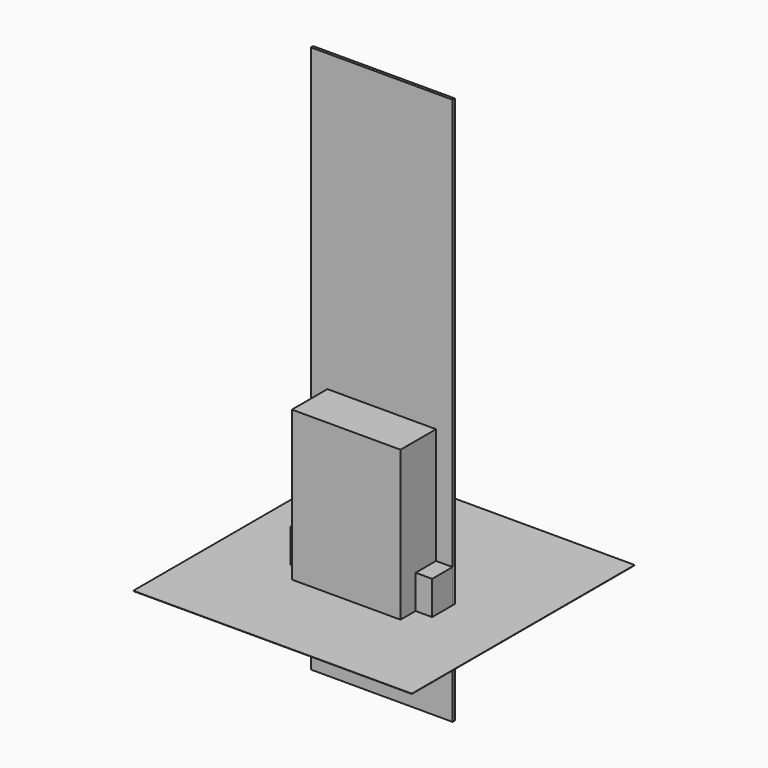
from build123d import *

# Parameters (mm, degrees)
F1_DEPTH  = 50
F3_DEPTH  = 25
F5_DEPTH  = 35
F7_DEPTH  = 30
F9_DEPTH  = 3
F11_DEPTH = 30
F13_DEPTH = 35
F14_W     = 295
F14_H     = 295
F15_DEPTH = 0.3


with BuildPart() as f1:
    # F0 (on Front) → F1 (new body)
    with BuildSketch(Plane.XZ):
        Polygon((57.5, 158.780627), (0, 158.780627), (-57.5, 158.780627), (-57.5, -56.219373), (0, -56.219373), (57.5, -56.219373), align=None)
    extrude(amount=F1_DEPTH)


with BuildPart() as f3:
    # F2 (on Front) → F3 (new body)
    with BuildSketch(Plane.XZ):
        Polygon((42.5, 25.393007), (0, 25.393007), (-42.5, 25.393007), (-42.5, -30.606993), (0, -30.606993), (42.5, -30.606993), align=None)
    extrude(amount=F3_DEPTH)


with BuildPart() as f5:
    # F4 (on Front) → F5 (new body)
    with BuildSketch(Plane.XZ):
        Polygon((30, 24.611398), (0, 24.611398), (-30, 24.611398), (-30, -15.388602), (0, -15.388602), (30, -15.388602), align=None)
    extrude(amount=F5_DEPTH)


with BuildPart() as f7:
    # F6 (on Front) → F7 (new body)
    with BuildSketch(Plane.XZ):
        Polygon((75, 35.97626), (0, 35.97626), (-75, 35.97626), (-75, -54.02374), (0, -54.02374), (75, -54.02374), align=None)
    extrude(amount=F7_DEPTH)


with BuildPart() as f9:
    # F8 (on Front) → F9 (new body)
    with BuildSketch(Plane.XZ):
        Polygon((75, 471.614421), (0, 471.614421), (-75, 471.614421), (-75, -108.385579), (0, -108.385579), (75, -108.385579), align=None)
    extrude(amount=F9_DEPTH)


with BuildPart() as f11:
    # F10 (on Front) → F11 (new body)
    with BuildSketch(Plane.XZ):
        Polygon((20, 30.50577), (0, 30.50577), (-20, 30.50577), (-20, -19.49423), (0, -19.49423), (20, -19.49423), align=None)
    extrude(amount=F11_DEPTH)


with BuildPart() as f13:
    # F12 (on Front) → F13 (new body)
    with BuildSketch(Plane.XZ):
        Polygon((20, 29.432625), (0, 29.432625), (-20, 29.432625), (-20, -20.567375), (0, -20.567375), (20, -20.567375), align=None)
    extrude(amount=F13_DEPTH)


with BuildPart() as f15:
    # F14 (on Top) → F15 (new body)
    with BuildSketch(Plane.XY):
        Rectangle(F14_W, F14_H)
    extrude(amount=F15_DEPTH)


solid = Compound([f1.part, f3.part, f5.part, f7.part, f9.part, f11.part, f13.part, f15.part])
